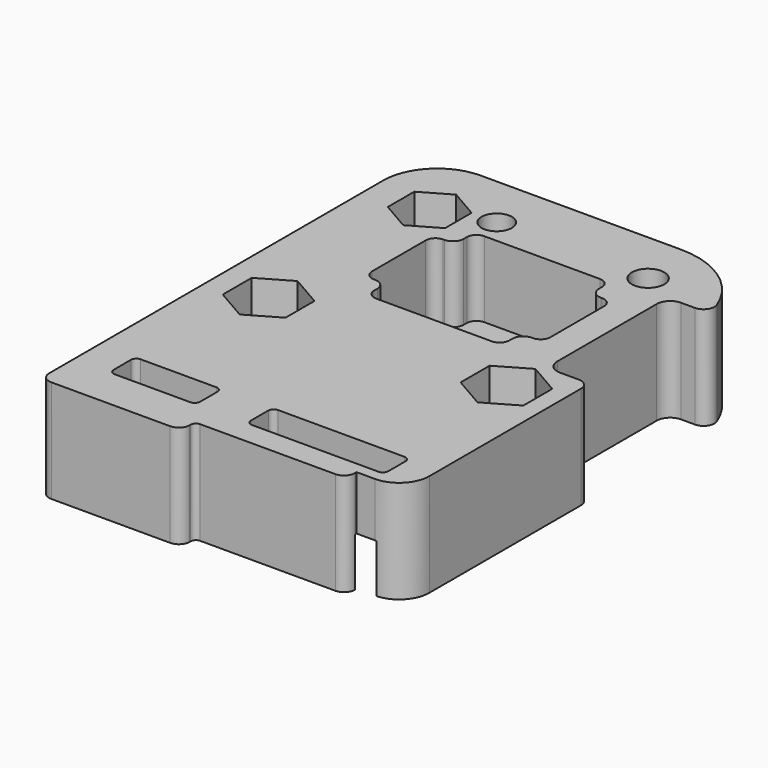
from build123d import *

# Parameters (mm, degrees)
SKETCH037_R     = 1.55
SKETCH037_R_2   = 1.5
SKETCH037_R_3   = 3.65
SKETCH037_R_4   = 1.4
SKETCH037_W     = 8
SKETCH037_H     = 3
SKETCH037_W_2   = 12.7
PAD009_DEPTH    = 9.5
POCKET015_DEPTH = 7
POCKET016_DEPTH = 10
POCKET014_DEPTH = 4.5
POCKET013_DEPTH = 4.5
SKETCH033_W     = 25.7
SKETCH033_H     = 13
POCKET017_DEPTH = 3
POCKET012_DEPTH = 2.5
SKETCH038_R     = 1.8
POCKET011_DEPTH = 1.5
FILLET005_R     = 1
FILLET006_R     = 0.5
POCKET018_DEPTH = 2.2


with BuildPart() as part:
    # Sketch037 → Pad009 (new body)
    with BuildSketch(Plane.XY):
        with BuildLine():
            Line((-11, 13.5), (7.5, 13.5))
            ThreePointArc((15.5, 5.5), (13.156854, 11.156854), (7.5, 13.5))
            Line((15.5, 5.5), (15.5, -25.53))
            ThreePointArc((12.7, -28.33), (14.679899, -27.509899), (15.5, -25.53))
            Line((11, -28.33), (12.7, -28.33))
            Line((11, -29.53), (11, -28.33))
            Line((-3, -29.53), (11, -29.53))
            Line((-3, -31.13), (-3, -29.53))
            Line((-3, -31.13), (-16, -31.13))
            Line((-16, -31.13), (-16, 8.5))
            ThreePointArc((-11, 13.5), (-14.535534, 12.035534), (-16, 8.5))
        make_face()
        with Locations((-11, -11)):
            Circle(SKETCH037_R, mode=Mode.SUBTRACT)
        with Locations((11, -11)):
            Circle(SKETCH037_R, mode=Mode.SUBTRACT)
        with Locations((8.5, 8.5)):
            Circle(SKETCH037_R_2, mode=Mode.SUBTRACT)
        with Locations((-10.5, 7)):
            Circle(SKETCH037_R_2, mode=Mode.SUBTRACT)
        with Locations((0.5, 0)):
            Circle(SKETCH037_R_3, mode=Mode.SUBTRACT)
        with Locations((-5.5, 8.5)):
            Circle(SKETCH037_R_4, mode=Mode.SUBTRACT)
        with Locations((-8.7, -25.79)):
            Rectangle(SKETCH037_W, SKETCH037_H, mode=Mode.SUBTRACT)
        with Locations((6.35, -25.79)):
            Rectangle(SKETCH037_W_2, SKETCH037_H, mode=Mode.SUBTRACT)
    extrude(amount=PAD009_DEPTH)

    # Sketch032 (on Face27 of Pad009) → Pocket015 (cut)
    with BuildSketch(Plane.XY.offset(9.5)):
        with BuildLine():
            Line((7.85, -4), (7.75, -4))
            ThreePointArc((7.75, -4), (7.042893, -4.292893), (6.75, -5))
            Line((6.75, -5), (6.75, -5.35))
            ThreePointArc((5.85, -6.25), (6.486396, -5.986396), (6.75, -5.35))
            Line((5.85, -6.25), (-4.85, -6.25))
            ThreePointArc((-5.75, -5.35), (-5.486396, -5.986396), (-4.85, -6.25))
            Line((-5.75, -5.35), (-5.75, -5))
            ThreePointArc((-5.75, -5), (-6.042893, -4.292893), (-6.75, -4))
            Line((-6.75, -4), (-6.85, -4))
            ThreePointArc((-7.75, -3.1), (-7.486396, -3.736396), (-6.85, -4))
            Line((-7.75, -3.1), (-7.75, 3.1))
            ThreePointArc((-6.85, 4), (-7.486396, 3.736396), (-7.75, 3.1))
            Line((-6.85, 4), (-6.75, 4))
            ThreePointArc((-6.75, 4), (-6.042893, 4.292893), (-5.75, 5))
            Line((-5.75, 5), (-5.75, 5.35))
            ThreePointArc((-4.85, 6.25), (-5.486396, 5.986396), (-5.75, 5.35))
            Line((-4.85, 6.25), (5.85, 6.25))
            ThreePointArc((6.75, 5.35), (6.486396, 5.986396), (5.85, 6.25))
            Line((6.75, 5.35), (6.75, 5))
            ThreePointArc((6.75, 5), (7.042893, 4.292893), (7.75, 4))
            Line((7.75, 4), (7.85, 4))
            ThreePointArc((8.75, 3.1), (8.486396, 3.736396), (7.85, 4))
            Line((8.75, 3.1), (8.75, -3.1))
            ThreePointArc((7.85, -4), (8.486396, -3.736396), (8.75, -3.1))
        make_face()
    extrude(amount=-POCKET015_DEPTH, mode=Mode.SUBTRACT)

    # Sketch035 (on Face5 of Pocket015) → Pocket016 (cut)
    with BuildSketch(Plane.XY.offset(9.5)):
        with BuildLine():
            Line((12.75, 7), (16.5, 7))
            Line((16.5, 7), (16.5, -7))
            Line((16.5, -7), (12.75, -7))
            ThreePointArc((11.5, -5.75), (11.866117, -6.633883), (12.75, -7))
            Line((11.5, -5.75), (11.5, 5.75))
            ThreePointArc((12.75, 7), (11.866117, 6.633883), (11.5, 5.75))
        make_face()
    extrude(amount=-POCKET016_DEPTH, mode=Mode.SUBTRACT)

    # Sketch031 (on Face5 of Pocket016) → Pocket014 (cut)
    with BuildSketch(Plane.XY.offset(9.5)):
        Polygon((-8.1, -12.674316), (-8.1, -9.325684), (-11, -7.651368), (-13.9, -9.325684), (-13.9, -12.674316), (-11, -14.348632), align=None)
        Polygon((13.9, -12.674316), (13.9, -9.325684), (11, -7.651368), (8.1, -9.325684), (8.1, -12.674316), (11, -14.348632), align=None)
    extrude(amount=-POCKET014_DEPTH, mode=Mode.SUBTRACT)

    # Sketch034 (on Face5 of Pocket014) → Pocket013 (cut)
    with BuildSketch(Plane.XY.offset(9.5)):
        Polygon((-7.85, 5.470022), (-7.85, 8.529978), (-10.5, 10.059956), (-13.15, 8.529978), (-13.15, 5.470022), (-10.5, 3.940044), align=None)
    extrude(amount=-POCKET013_DEPTH, mode=Mode.SUBTRACT)

    # Sketch033 (on Face4 of Pocket013) → Pocket017 (cut)
    with BuildSketch(Plane(origin=(0, 0, 0), x_dir=(1, 0, 0), z_dir=(0, 0, -1))):
        with Locations((0, 22)):
            Rectangle(SKETCH033_W, SKETCH033_H)
    extrude(amount=-POCKET017_DEPTH, mode=Mode.SUBTRACT)

    # Sketch036 → Pocket012 (cut)
    with BuildSketch(Plane(origin=(0, 0, 0), x_dir=(1, 0, 0), z_dir=(0, 0, -1))):
        with BuildLine():
            Line((-16, -10), (-11, -10))
            ThreePointArc((-10, -11), (-10.292893, -10.292893), (-11, -10))
            Line((-10, -11), (-10, -14))
            Line((-10, -14), (-16, -14))
            Line((-16, -14), (-16, -10))
        make_face()
    extrude(amount=-POCKET012_DEPTH, mode=Mode.SUBTRACT)

    # Sketch038 (on Face83 of Pocket012) → Pocket011 (cut)
    with BuildSketch(Plane(origin=(0, 0, 3), x_dir=(1, 0, 0), z_dir=(0, 0, -1))):
        with Locations((0, 22)):
            Circle(SKETCH038_R)
        with BuildLine():
            Line((-12.85, 20.5), (-3.5, 20.5))
            ThreePointArc((-1.5, 18.5), (-2.085786, 19.914214), (-3.5, 20.5))
            Line((-1.5, 18.5), (-1.5, 15.5))
            Line((-1.5, 15.5), (-12.85, 15.5))
            Line((-12.85, 15.5), (-12.85, 20.5))
        make_face()
        with BuildLine():
            Line((1.5, 15.5), (12.85, 15.5))
            Line((12.85, 15.5), (12.85, 20.5))
            Line((12.85, 20.5), (3.5, 20.5))
            ThreePointArc((3.5, 20.5), (2.085786, 19.914214), (1.5, 18.5))
            Line((1.5, 18.5), (1.5, 15.5))
        make_face()
        with BuildLine():
            Line((-12.85, 23.5), (-3.5, 23.5))
            ThreePointArc((-3.5, 23.5), (-2.085786, 24.085786), (-1.5, 25.5))
            Line((-1.5, 25.5), (-1.5, 28.5))
            Line((-1.5, 28.5), (-12.85, 28.5))
            Line((-12.85, 28.5), (-12.85, 23.5))
        make_face()
        with BuildLine():
            Line((1.5, 28.5), (12.85, 28.5))
            Line((12.85, 28.5), (12.85, 23.5))
            Line((12.85, 23.5), (3.5, 23.5))
            ThreePointArc((1.5, 25.5), (2.085786, 24.085786), (3.5, 23.5))
            Line((1.5, 25.5), (1.5, 28.5))
        make_face()
    extrude(amount=-POCKET011_DEPTH, mode=Mode.SUBTRACT)

    # Fillet005
    fillet005_edges = [part.edges().sort_by_distance(p)[0] for p in [
        (15.358117, 7, 4.75),
        (15.5, -7, 4.75),
        (11, -29.53, 4.75),
        (-3, -31.13, 4.75),
        (-16, -31.13, 4.75),
        (-15.769696, 10, 1.25),
        (-10, 13.5, 1.25),
    ]]
    fillet(fillet005_edges, radius=FILLET005_R)

    # Fillet006
    fillet006_edges = [part.edges().sort_by_distance(p)[0] for p in [
        (-3, -29.53, 4.75),
        (-12.85, -15.5, 1.5),
        (-12.85, -15.5, 3.75),
        (1.5, -15.5, 3.75),
        (-12.85, -23.5, 3.75),
        (-12.85, -28.5, 3.75),
        (-12.85, -28.5, 1.5),
        (-12.85, -20.5, 3.75),
        (-12.7, -27.29, 7),
        (-1.5, -15.5, 3.75),
        (-4.7, -24.29, 7),
        (-4.7, -27.29, 7),
        (-12.7, -24.29, 7),
        (-1.5, -28.5, 3.75),
        (1.5, -28.5, 3.75),
        (1.5, -27.29, 3.75),
        (0, -27.29, 6.25),
        (0, -24.29, 6.25),
        (1.907549, -24.29, 3.75),
        (12.85, -20.5, 3.75),
        (12.7, -27.29, 7),
        (12.85, -23.5, 3.75),
        (12.85, -15.5, 3.75),
        (12.85, -15.5, 1.5),
        (12.7, -24.29, 7),
        (-1.8, -22, 4.5),
    ]]
    fillet(fillet006_edges, radius=FILLET006_R)

    # Sketch039 (on Face1 of Fillet006) → Pocket018 (cut)
    with BuildSketch(Plane(origin=(0, 0, 0), x_dir=(1, 0, 0), z_dir=(0, 0, -1))):
        Polygon((-2.85, -10.029978), (-2.85, -6.970022), (-5.5, -5.440044), (-8.15, -6.970022), (-8.15, -10.029978), (-5.5, -11.559956), align=None)
    extrude(amount=-POCKET018_DEPTH, mode=Mode.SUBTRACT)


solid = part.part
